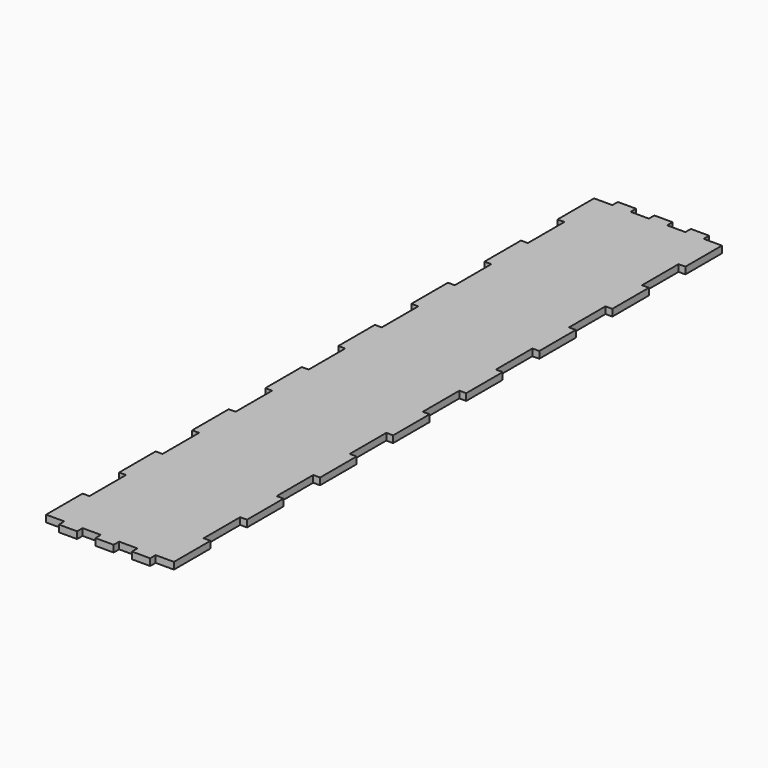
from build123d import *

# Parameters (mm, degrees)
SKETCH_W      = 56
SKETCH_H      = 306
PAD_DEPTH     = 3
SKETCH001_W   = 8
SKETCH001_H   = 3
SKETCH001_W_2 = 3
SKETCH001_H_2 = 20
POCKET_DEPTH  = 3.001


with BuildPart() as part:
    # Sketch → Pad (new body)
    with BuildSketch(Plane.XY):
        with Locations((28, 153)):
            Rectangle(SKETCH_W, SKETCH_H)
    extrude(amount=PAD_DEPTH)

    # Sketch001 (on Face6 of Pad) → Pocket (cut, through all)
    with BuildSketch(Plane.XY.offset(3)):
        with Locations((4, 1.5)):
            Rectangle(SKETCH001_W, SKETCH001_H)
        with Locations((20, 1.5)):
            Rectangle(SKETCH001_W, SKETCH001_H)
        with Locations((36, 1.5)):
            Rectangle(SKETCH001_W, SKETCH001_H)
        with Locations((52, 1.5)):
            Rectangle(SKETCH001_W, SKETCH001_H)
        with Locations((4, 304.5)):
            Rectangle(SKETCH001_W, SKETCH001_H)
        with Locations((20, 304.5)):
            Rectangle(SKETCH001_W, SKETCH001_H)
        with Locations((36, 304.5)):
            Rectangle(SKETCH001_W, SKETCH001_H)
        with Locations((52, 304.5)):
            Rectangle(SKETCH001_W, SKETCH001_H)
        with Locations((1.5, 33)):
            Rectangle(SKETCH001_W_2, SKETCH001_H_2)
        with Locations((1.5, 73)):
            Rectangle(SKETCH001_W_2, SKETCH001_H_2)
        with Locations((1.5, 113)):
            Rectangle(SKETCH001_W_2, SKETCH001_H_2)
        with Locations((1.5, 153)):
            Rectangle(SKETCH001_W_2, SKETCH001_H_2)
        with Locations((1.5, 193)):
            Rectangle(SKETCH001_W_2, SKETCH001_H_2)
        with Locations((1.5, 233)):
            Rectangle(SKETCH001_W_2, SKETCH001_H_2)
        with Locations((1.5, 273)):
            Rectangle(SKETCH001_W_2, SKETCH001_H_2)
        with Locations((54.5, 33)):
            Rectangle(SKETCH001_W_2, SKETCH001_H_2)
        with Locations((54.5, 73)):
            Rectangle(SKETCH001_W_2, SKETCH001_H_2)
        with Locations((54.5, 113)):
            Rectangle(SKETCH001_W_2, SKETCH001_H_2)
        with Locations((54.5, 153)):
            Rectangle(SKETCH001_W_2, SKETCH001_H_2)
        with Locations((54.5, 193)):
            Rectangle(SKETCH001_W_2, SKETCH001_H_2)
        with Locations((54.5, 233)):
            Rectangle(SKETCH001_W_2, SKETCH001_H_2)
        with Locations((54.5, 273)):
            Rectangle(SKETCH001_W_2, SKETCH001_H_2)
    extrude(amount=-POCKET_DEPTH, mode=Mode.SUBTRACT)


solid = part.part
